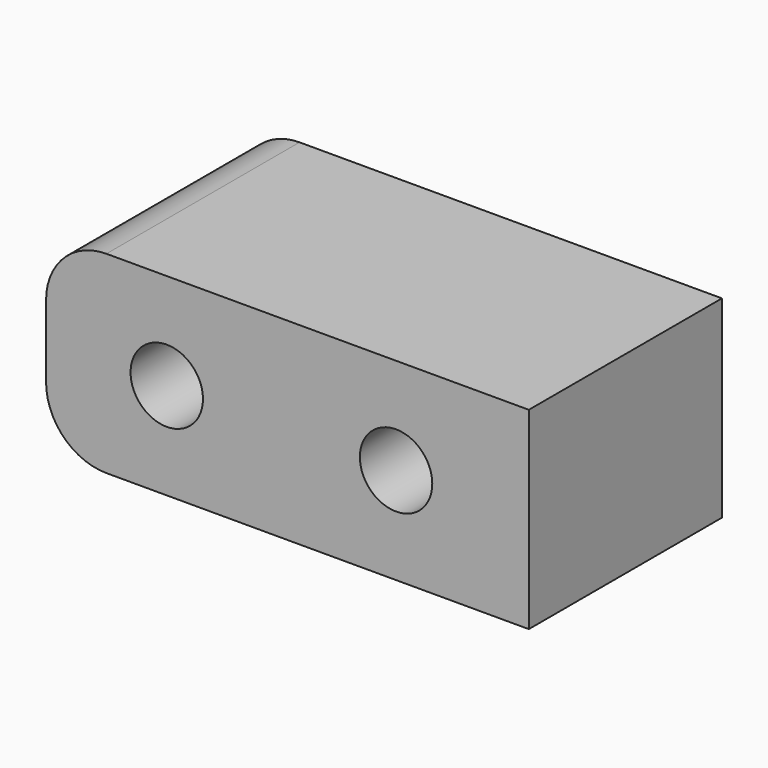
from build123d import *

# Parameters (mm, degrees)
F0_W     = 40
F0_H     = 16
F0_R     = 3
F1_DEPTH = 20
F2_R     = 5


with BuildPart() as f1:
    # F0 (on Front) → F1 (new body)
    with BuildSketch(Plane.XZ):
        with Locations((1.978697, 2.419892)):
            Rectangle(F0_W, F0_H)
        with Locations((-8.021303, 2.419892)):
            Circle(F0_R, mode=Mode.SUBTRACT)
        with Locations((10.978697, 2.419892)):
            Circle(F0_R, mode=Mode.SUBTRACT)
    extrude(amount=F1_DEPTH)

    # F2
    f2_edges = [f1.edges().sort_by_distance(p)[0] for p in [
        (-18.021303, -10, 10.419892),
        (-18.021303, -10, -5.580108),
    ]]
    fillet(f2_edges, radius=F2_R)


solid = f1.part
